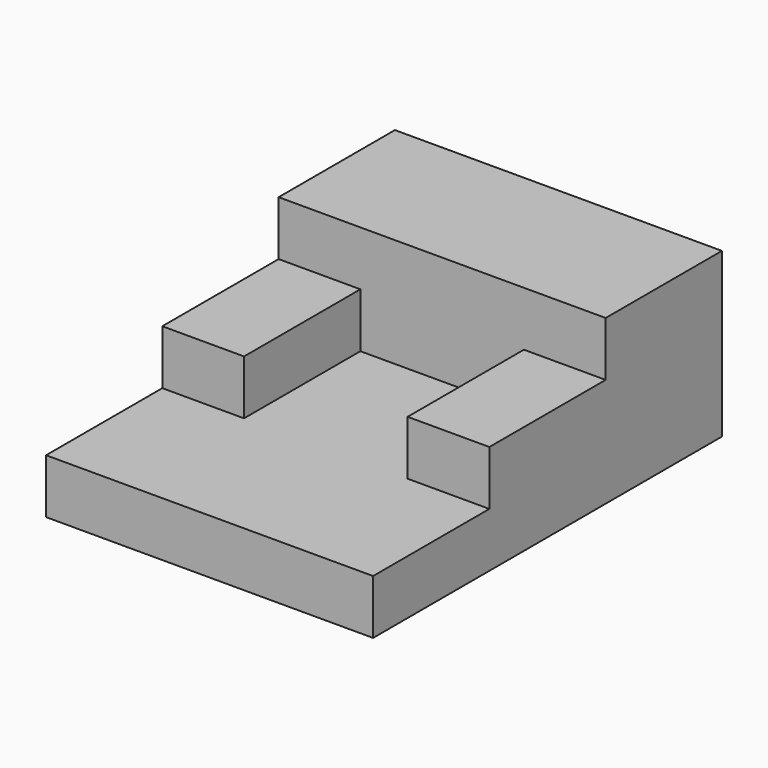
from build123d import *

# Parameters (mm, degrees)
F0_W     = 38.1
F0_H     = 50.8
F1_DEPTH = 6.35
F2_W     = 38.1
F2_H     = 16.933333
F3_DEPTH = 12.7
F4_W     = 9.525
F4_H     = 16.9418
F4_H_2   = 16.933334
F5_DEPTH = 6.35


with BuildPart() as f1:
    # F0 (on Top) → F1 (new body)
    with BuildSketch(Plane.XY):
        Rectangle(F0_W, F0_H)
    extrude(amount=F1_DEPTH)

    # F2 (on face) → F3 (join)
    with BuildSketch(Plane.XY.offset(6.35)):
        with Locations((0, 16.933333)):
            Rectangle(F2_W, F2_H)
    extrude(amount=F3_DEPTH)

    # F4 (on face) → F5 (join)
    with BuildSketch(Plane.XY.offset(6.35)):
        with Locations((-14.2875, -0.004233)):
            Rectangle(F4_W, F4_H)
        with Locations((14.2875, 0)):
            Rectangle(F4_W, F4_H_2)
    extrude(amount=F5_DEPTH)


solid = f1.part
